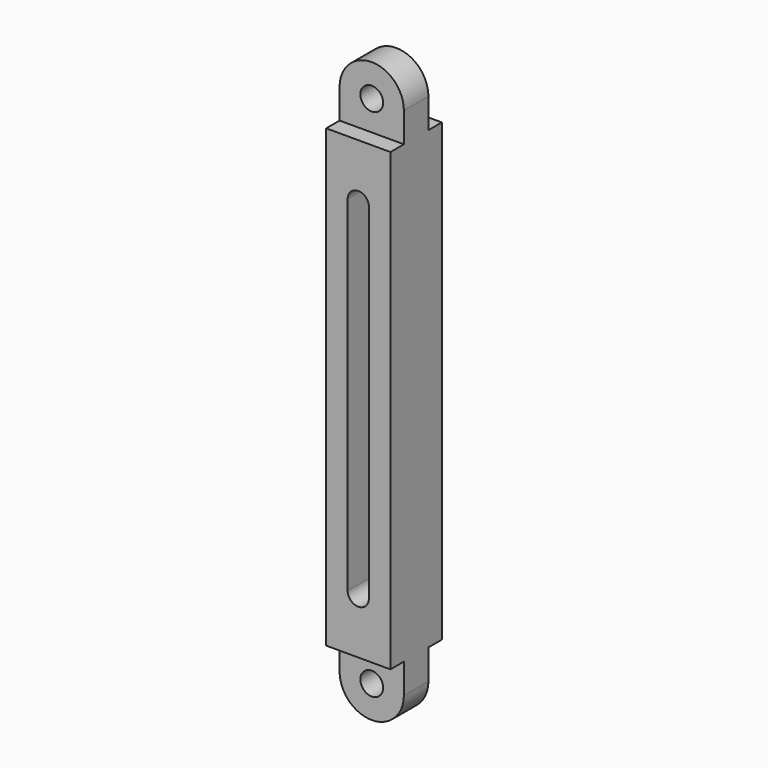
from build123d import *

# Parameters (mm, degrees)
F0_W     = 5.588
F0_H     = 33.6042
F0_R     = 0.9906
F1_DEPTH = 5.588
F2_W     = 1.4605
F2_H     = 2.5908
F2_H_2   = 2.794
F3_DEPTH = 5.589


with BuildPart() as f1:
    # F0 (on Front) → F1 (new body)
    with BuildSketch(Plane.XZ):
        Rectangle(F0_W, F0_H)
        with BuildLine():
            ThreePointArc((-0.9271, 14.986), (0, 15.9131), (0.9271, 14.986))
            Line((0.9271, 14.986), (0.9271, -14.986))
            ThreePointArc((0.9271, -14.986), (0, -15.9131), (-0.9271, -14.986))
            Line((-0.9271, -14.986), (-0.9271, 14.986))
        make_face(mode=Mode.SUBTRACT)
        with BuildLine():
            Line((-2.794, 16.8021), (2.794, 16.8021))
            Line((2.794, 16.8021), (2.794, 22.3901))
            ThreePointArc((2.794, 22.3901), (0, 25.1841), (-2.794, 22.3901))
            Line((-2.794, 22.3901), (-2.794, 16.8021))
        make_face()
        with Locations((0, 22.3901)):
            Circle(F0_R, mode=Mode.SUBTRACT)
        with BuildLine():
            Line((2.794, -22.3901), (2.794, -16.8021))
            Line((2.794, -16.8021), (-2.794, -16.8021))
            Line((-2.794, -16.8021), (-2.794, -22.3901))
            ThreePointArc((-2.794, -22.3901), (0, -25.1841), (2.794, -22.3901))
        make_face()
        with Locations((0, -22.3901)):
            Circle(F0_R, mode=Mode.SUBTRACT)
    extrude(amount=F1_DEPTH)

    # F2 (on face) → F3 (cut, through all)
    with BuildSketch(Plane(origin=(-2.794, 0, 0), x_dir=(0, -1, 0), z_dir=(-1, 0, 0))):
        with Locations((0.73025, 21.0947)):
            Rectangle(F2_W, F2_H)
        with Locations((0.73025, 23.7871)):
            Rectangle(F2_W, F2_H_2)
        with Locations((4.85775, 23.7871)):
            Rectangle(F2_W, F2_H_2)
        with Locations((4.85775, 21.0947)):
            Rectangle(F2_W, F2_H)
        with Locations((0.73025, -23.7871)):
            Rectangle(F2_W, F2_H_2)
        with Locations((0.73025, -21.0947)):
            Rectangle(F2_W, F2_H)
        with Locations((4.85775, -21.0947)):
            Rectangle(F2_W, F2_H)
        with Locations((4.85775, -23.7871)):
            Rectangle(F2_W, F2_H_2)
    extrude(amount=-F3_DEPTH, mode=Mode.SUBTRACT)


solid = f1.part
